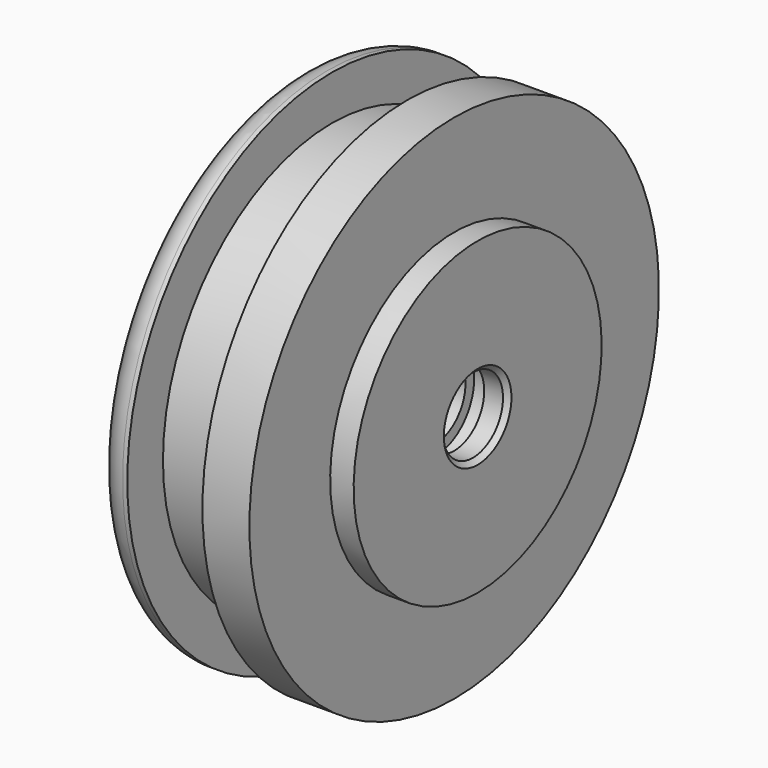
from build123d import *

# Parameters (mm, degrees)
F2_R    = 6
F3_SIZE = 1


with BuildPart() as f1:
    # F0 (on Front) → F1 (revolve)
    with BuildSketch(Plane.XZ):
        Polygon((-15.775755, -20), (-30.775755, -20), (-30.775755, -54.5), (-23.775755, -54.5), (-23.775755, -45), (-7.775755, -45), (-7.775755, -54.5), (2.224245, -54.5), (2.224245, -33), (7.224245, -33), (7.224245, -8), (2.224245, -8), (2.224245, -10.325), (-1.775755, -10.325), (-1.775755, -8), (-15.775755, -8), align=None)
    revolve(axis=Axis((-3.464836, 0, 0), (-1, 0, 0)))

    # F2
    f2_edges = [f1.edges().sort_by_distance(p)[0] for p in [
        (-30.775755, 0, 54.5),
    ]]
    fillet(f2_edges, radius=F2_R)

    # F3
    f3_edges = [f1.edges().sort_by_distance(p)[0] for p in [
        (-30.775755, 0, 20),
        (7.224245, 0, 8),
    ]]
    chamfer(f3_edges, length=F3_SIZE)


solid = f1.part
